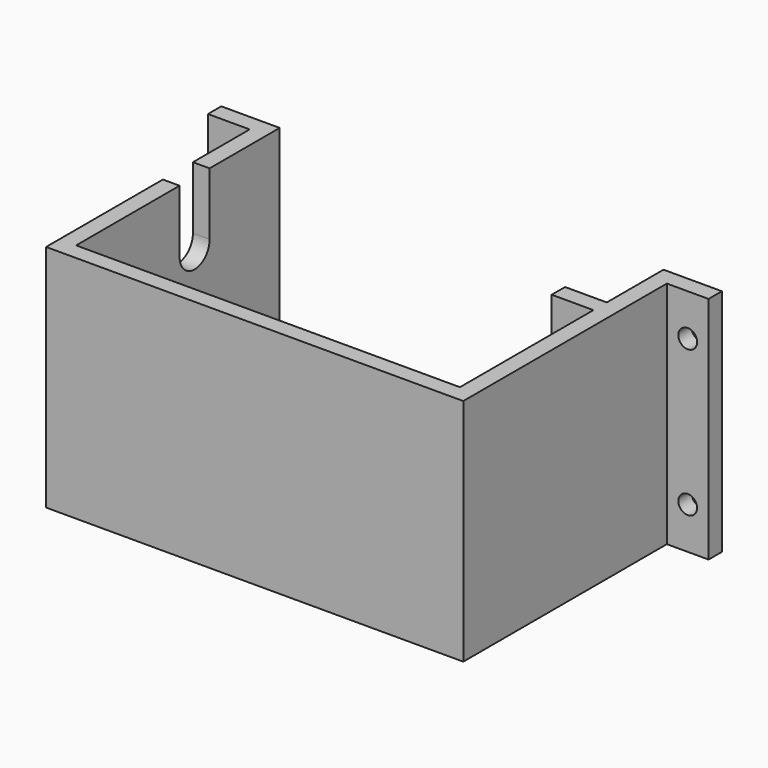
from build123d import *

# Parameters (mm, degrees)
PAD_DEPTH       = 5
PAD001_DEPTH    = 50
POCKET_DEPTH    = 4
SKETCH003_R     = 1.5
POCKET001_DEPTH = 17
SKETCH004_R     = 2.25
HOLE_DEPTH      = 25
SKETCH008_W     = 45
SKETCH008_H     = 30
POCKET002_DEPTH = 4


with BuildPart() as part:
    # Sketch → Pad (new body)
    with BuildSketch(Plane.XY):
        Polygon((0, 0), (-10, 0), (-10, 4), (110, 4), (110, 0), (100, 0), (100, -61), (0, -61), align=None)
    extrude(amount=-PAD_DEPTH)

    # Sketch001 → Pad001 (join)
    with BuildSketch(Plane.XY):
        Polygon((0, 0), (-10, 0), (-10, 4), (4, 4), (4, -13), (45, -13), (45, -17), (4, -17), (4, -57), (96, -57), (96, -17), (86, -17), (86, -13), (96, -13), (96, 4), (110, 4), (110, 0), (100, 0), (100, -61), (0, -61), align=None)
    extrude(amount=PAD001_DEPTH)

    # Sketch002 → Pocket (cut)
    with BuildSketch(Plane.YZ):
        with BuildLine():
            Line((-26, 50), (-17, 50))
            Line((-17, 50), (-17, 35))
            ThreePointArc((-26, 35), (-21.5, 30.5), (-17, 35))
            Line((-26, 50), (-26, 35))
        make_face()
    extrude(amount=POCKET_DEPTH, mode=Mode.SUBTRACT)

    # Sketch003 → Pocket001 (cut)
    with BuildSketch(Plane.XZ):
        with Locations((41, 15)):
            Circle(SKETCH003_R)
        with Locations((41, 5)):
            Circle(SKETCH003_R)
        with Locations((91, 15)):
            Circle(SKETCH003_R)
        with Locations((91, 5)):
            Circle(SKETCH003_R)
    extrude(amount=POCKET001_DEPTH, mode=Mode.SUBTRACT)

    # Sketch004 → Hole (cut)
    with BuildSketch(Plane.XZ):
        with Locations((-5, 40)):
            Circle(SKETCH004_R)
        with Locations((-5, 5)):
            Circle(SKETCH004_R)
        with Locations((105, 40)):
            Circle(SKETCH004_R)
        with Locations((105, 5)):
            Circle(SKETCH004_R)
    extrude(amount=-HOLE_DEPTH, mode=Mode.SUBTRACT)

    # Sketch008 (on Face25 of Hole) → Pocket002 (cut)
    with BuildSketch(Plane(origin=(0, -13, 0), x_dir=(-1, 0, 0), z_dir=(0, 1, 0))):
        with Locations((-26.5, 35)):
            Rectangle(SKETCH008_W, SKETCH008_H)
    extrude(amount=-POCKET002_DEPTH, mode=Mode.SUBTRACT)


solid = part.part
